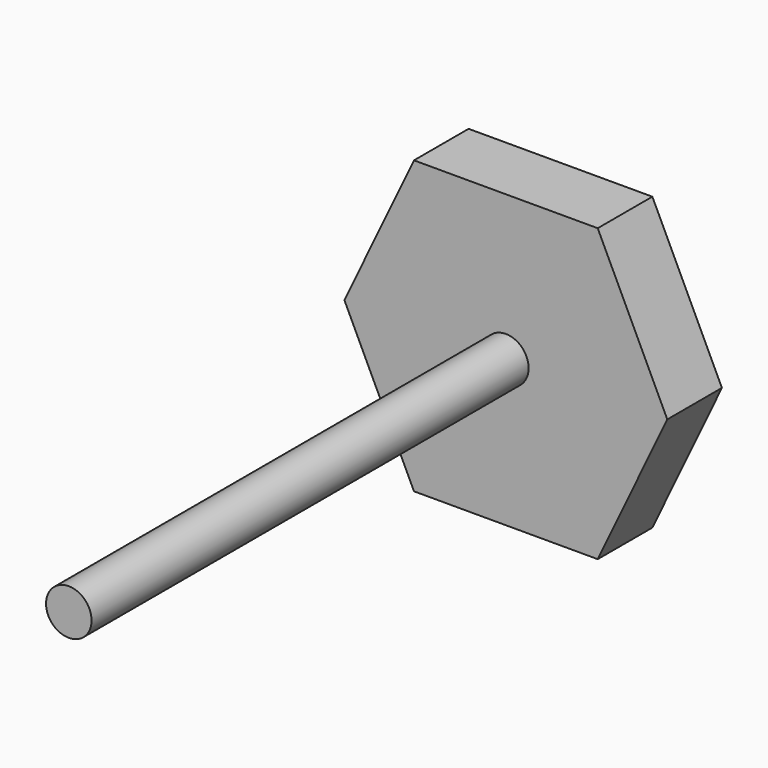
from build123d import *

# Parameters (mm, degrees)
F1_DEPTH = 3.75
F2_R     = 1.25
F3_DEPTH = 30


with BuildPart() as f1:
    # F0 (on Front) → F1 (new body)
    with BuildSketch(Plane.XZ):
        Polygon((6.409004, 25.153901), (-3.681577, 25.153901), (-7.50148, 17.153901), (-3.681577, 9.153901), (6.409004, 9.153901), (10.228907, 17.153901), align=None)
    extrude(amount=F1_DEPTH)

    # F2 (on face) → F3 (join)
    with BuildSketch(Plane.XZ.offset(3.75)):
        with Locations((1.363714, 17.153901)):
            Circle(F2_R)
    extrude(amount=F3_DEPTH)


solid = f1.part
